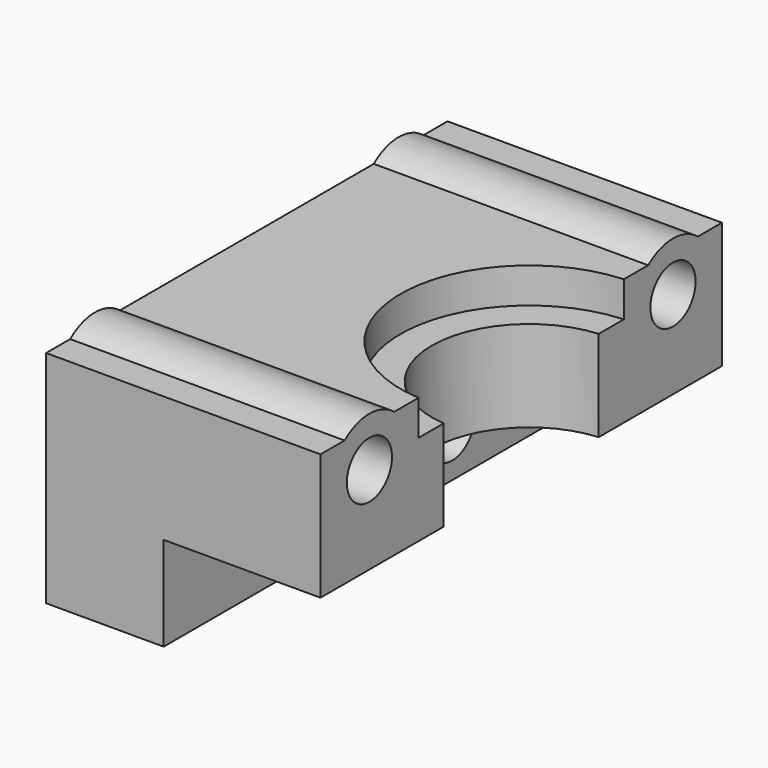
from build123d import *

# Parameters (mm, degrees)
SKETCH017_R     = 1.8
PAD008_DEPTH    = 18
SKETCH018_W     = 32
SKETCH018_H     = 6
POCKET_DEPTH    = 10.5
POCKET001_DEPTH = 14.051
POCKET002_DEPTH = 2.25
SKETCH_W        = 39.26252
SKETCH_H        = 23.934808
POCKET003_DEPTH = 0.5


with BuildPart() as part:
    # Sketch017 → Pad008 (new body)
    with BuildSketch(Plane.YZ):
        with BuildLine():
            Line((-16, 2.25), (-16, 0))
            Line((-16, 0), (-16, -5.8))
            Line((-16, -5.8), (-16, -11.8))
            Line((-16, -11.8), (16, -11.8))
            Line((16, -11.8), (16, -5.8))
            Line((16, -5.8), (16, 0))
            Line((16, 0), (16, 2.25))
            Line((14.0798989873, 2.25), (16, 2.25))
            ThreePointArc((14.0798989873, 2.25), (12.1, 2.95), (10.1201010127, 2.25))
            Line((10.1201010127, 2.25), (-10.1201010127, 2.25))
            ThreePointArc((-10.1201010127, 2.25), (-12.1, 2.95), (-14.0798989873, 2.25))
            Line((-14.0798989873, 2.25), (-16, 2.25))
        make_face()
        with Locations((-7, -8.9)):
            Circle(SKETCH017_R, mode=Mode.SUBTRACT)
        with Locations((7, -8.9)):
            Circle(SKETCH017_R, mode=Mode.SUBTRACT)
        with Locations((-12.1, -0.2)):
            Circle(SKETCH017_R, mode=Mode.SUBTRACT)
        with Locations((12.1, -0.2)):
            Circle(SKETCH017_R, mode=Mode.SUBTRACT)
    extrude(amount=-PAD008_DEPTH)

    # Sketch018 (on Face17 of Pad008) → Pocket (cut)
    with BuildSketch(Plane.YZ):
        with Locations((0, -8.8)):
            Rectangle(SKETCH018_W, SKETCH018_H)
    extrude(amount=-POCKET_DEPTH, mode=Mode.SUBTRACT)

    # Sketch019 (on Face3 of Pocket) → Pocket001 (cut, through all)
    with BuildSketch(Plane(origin=(0, 0, 2.25), x_dir=(0, -1, 0), z_dir=(0, 0, 1))):
        with BuildLine():
            ThreePointArc((-6.2, 0), (0, -6.2), (6.2, 0))
            Line((-6.2, 0), (6.2, 0))
        make_face()
    extrude(amount=-POCKET001_DEPTH, mode=Mode.SUBTRACT)

    # Sketch020 (on Face3 of Pocket001) → Pocket002 (cut)
    with BuildSketch(Plane(origin=(0, 0, 2.25), x_dir=(0, -1, 0), z_dir=(0, 0, 1))):
        with BuildLine():
            ThreePointArc((-8.2, 0), (0, -8.2), (8.2, 0))
            Line((-8.2, 0), (8.2, 0))
        make_face()
    extrude(amount=-POCKET002_DEPTH, mode=Mode.SUBTRACT)

    # Sketch (on Face8 of Pocket002) → Pocket003 (cut)
    with BuildSketch(Plane.YZ):
        with Locations((0.008158, -3.713083)):
            Rectangle(SKETCH_W, SKETCH_H)
    extrude(amount=-POCKET003_DEPTH, mode=Mode.SUBTRACT)


solid = part.part
